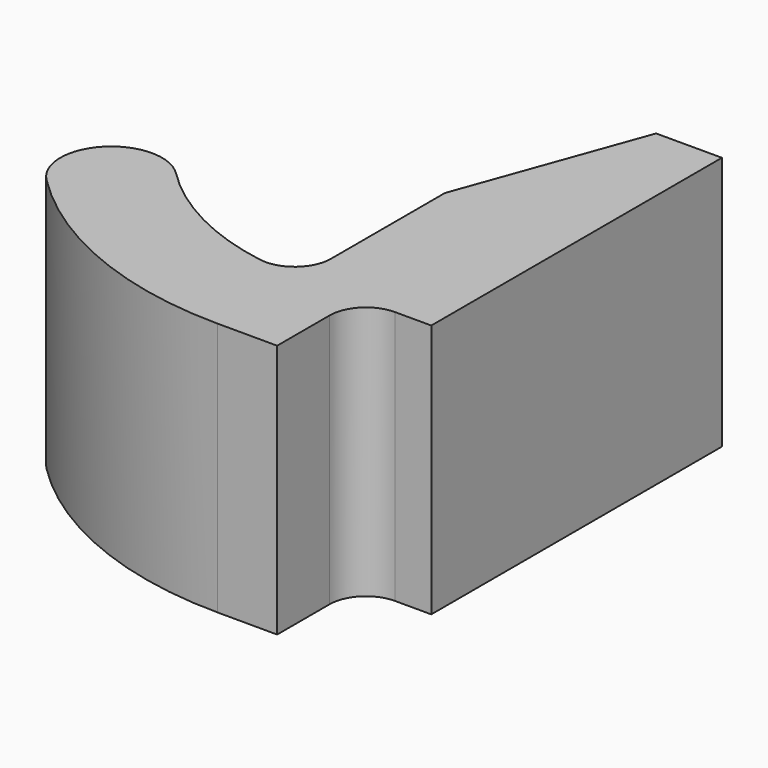
from build123d import *

# Parameters (mm, degrees)
F1_DEPTH = 7
F2_R     = 1


with BuildPart() as f1:
    # F0 (on Top) → F1 (new body)
    with BuildSketch(Plane.XY):
        with BuildLine():
            Line((0, 3.967148), (0, 6.770925))
            Line((0, 6.770925), (2, 6.770925))
            Line((2, 6.770925), (2, 16.770925))
            Line((2, 16.770925), (0.187763, 16.770925))
            Line((0.187763, 16.770925), (-1.624474, 11.770925))
            Line((-1.624474, 11.770925), (-1.624474, 7.852102))
            ThreePointArc((-1.624474, 7.852102), (-1.976897, 7.090101), (-2.785764, 6.865195))
            ThreePointArc((-2.785764, 6.865195), (-4.908971, 7.563736), (-6.715642, 8.879756))
            Line((-6.715642, 8.879756), (-8.695541, 6.899857))
            ThreePointArc((-8.695541, 6.899857), (-5.461971, 4.736554), (-1.647563, 3.970952))
            Line((-1.647563, 3.970952), (0, 3.967148))
        make_face()
        with BuildLine():
            ThreePointArc((-6.715642, 8.879756), (-8.695541, 8.879756), (-8.695541, 6.899857))
            Line((-8.695541, 6.899857), (-6.715642, 8.879756))
        make_face()
    extrude(amount=F1_DEPTH)

    # F2
    f2_edges = [f1.edges().sort_by_distance(p)[0] for p in [
        (0, 6.770925, 3.5),
    ]]
    fillet(f2_edges, radius=F2_R)


solid = f1.part
